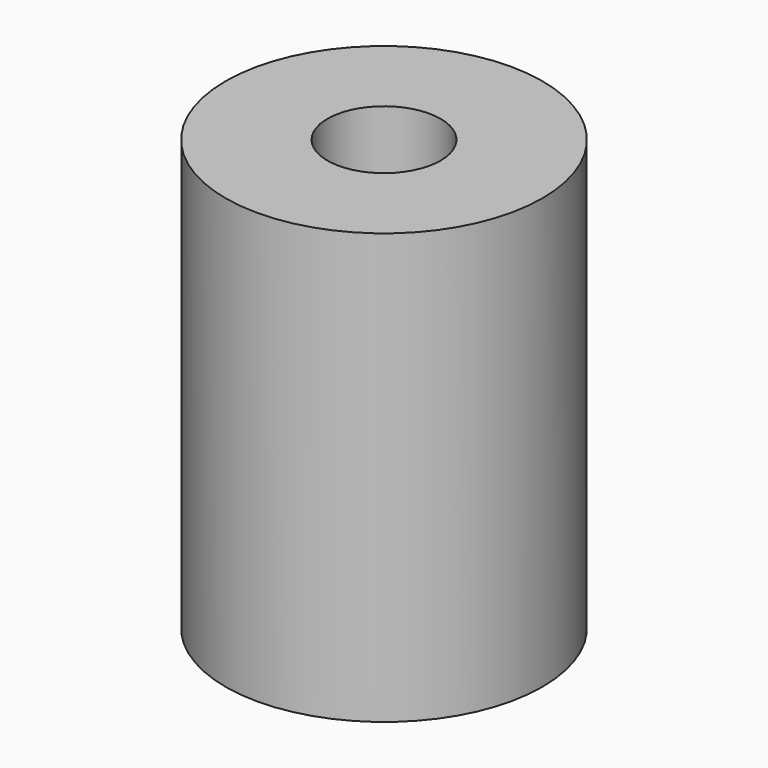
from build123d import *

# Parameters (mm, degrees)
SKETCH_R        = 14
PAD_DEPTH       = 38
SKETCH001_R     = 5
POCKET_DEPTH    = 26
SKETCH002_R     = 3.175
POCKET001_DEPTH = 13


with BuildPart() as part:
    # Sketch → Pad (new body)
    with BuildSketch(Plane.XY):
        Circle(SKETCH_R)
    extrude(amount=PAD_DEPTH)

    # Sketch001 → Pocket (cut)
    with BuildSketch(Plane.XY.offset(38)):
        Circle(SKETCH001_R)
    extrude(amount=-POCKET_DEPTH, mode=Mode.SUBTRACT)

    # Sketch002 → Pocket001 (cut)
    with BuildSketch(Plane(origin=(0, 0, 0), x_dir=(1, 0, 0), z_dir=(0, 0, -1))):
        Circle(SKETCH002_R)
    extrude(amount=-POCKET001_DEPTH, mode=Mode.SUBTRACT)


solid = part.part
